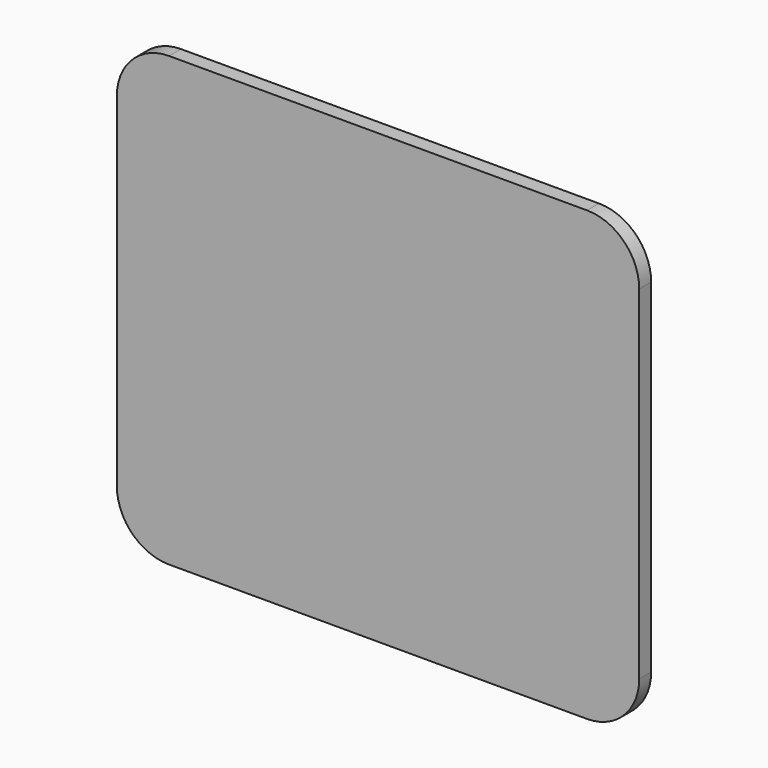
from build123d import *

# Parameters (mm, degrees)
F0_W     = 70
F0_H     = 60
F1_DEPTH = 2
F2_R     = 7
F3_W     = 64
F3_H     = 54
F4_DEPTH = 3
F5_R     = 5
F6_T     = -2


with BuildPart() as f1:
    # F0 (on Front) → F1 (new body)
    with BuildSketch(Plane.XZ):
        Rectangle(F0_W, F0_H)
    extrude(amount=F1_DEPTH)

    # F2
    f2_edges = [f1.edges().sort_by_distance(p)[0] for p in [
        (-35, -1, 30),
        (35, -1, 30),
        (35, -1, -30),
        (-35, -1, -30),
    ]]
    fillet(f2_edges, radius=F2_R)

    # F3 (on face) → F4 (join)
    with BuildSketch(Plane(origin=(0, 0, 0), x_dir=(-1, 0, 0), z_dir=(0, 1, 0))):
        Rectangle(F3_W, F3_H)
    extrude(amount=F4_DEPTH)

    # F5
    f5_edges = [f1.edges().sort_by_distance(p)[0] for p in [
        (32, 1.5, 27),
        (-32, 1.5, 27),
        (32, 1.5, -27),
        (-32, 1.5, -27),
    ]]
    fillet(f5_edges, radius=F5_R)

    # F6
    f6_openings = [f1.faces().sort_by_distance(p)[0] for p in [
        (0, 3, 0),
    ]]
    offset(amount=F6_T, openings=f6_openings, kind=Kind.INTERSECTION)


solid = f1.part
